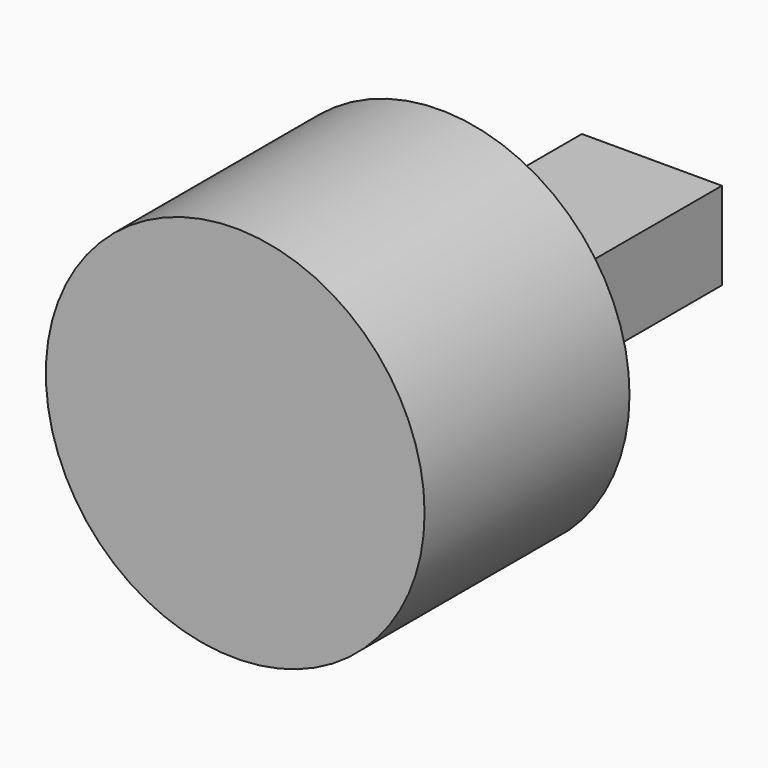
from build123d import *

# Parameters (mm, degrees)
F0_R     = 37.55585
F1_DEPTH = 50.8
F2_W     = 27.772067
F2_H     = 17.381157
F3_DEPTH = 50.8


with BuildPart() as f1:
    # F0 (on Front) → F1 (new body)
    with BuildSketch(Plane.XZ):
        Circle(F0_R)
    extrude(amount=F1_DEPTH)

    # F2 (on Front) → F3 (join)
    with BuildSketch(Plane.XZ):
        with Locations((1.355114, -0.094462)):
            Rectangle(F2_W, F2_H)
    extrude(amount=-F3_DEPTH)


solid = f1.part
